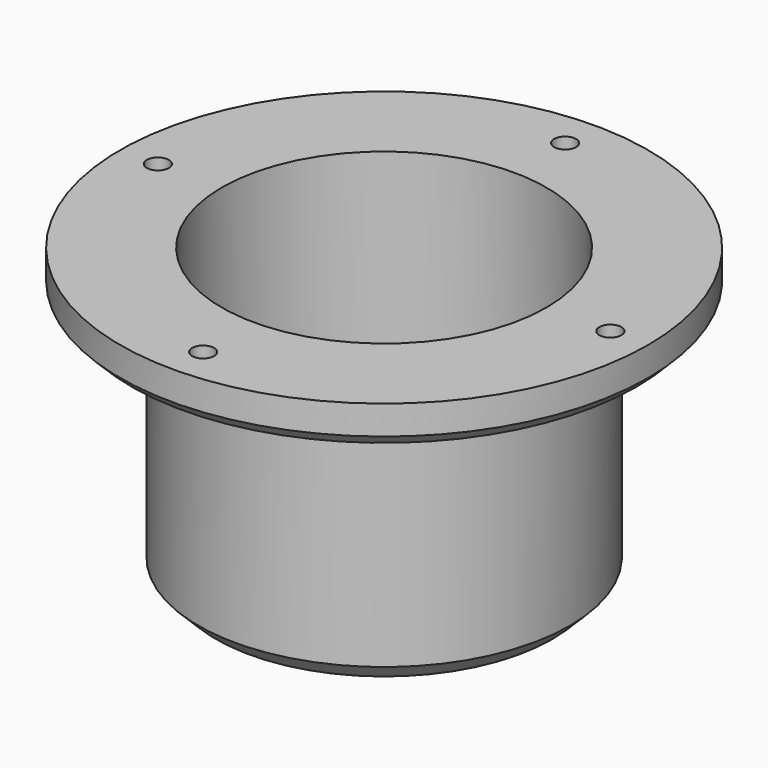
from build123d import *

# Parameters (mm, degrees)
SKETCH029_R     = 22.75
SKETCH029_R_2   = 14
PAD009_DEPTH    = 3.5
CHAMFER007_SIZE = 1
SKETCH026_R     = 16
SKETCH026_R_2   = 14
PAD010_DEPTH    = 25
SKETCH030_R     = 0.95
POCKET012_DEPTH = 3
SKETCH032_R     = 1.65
POCKET014_DEPTH = 1.5
CHAMFER011_SIZE = 1.5


with BuildPart() as part:
    # Sketch029 → Pad009 (new body)
    with BuildSketch(Plane.XY):
        Circle(SKETCH029_R)
        Circle(SKETCH029_R_2, mode=Mode.SUBTRACT)
    extrude(amount=-PAD009_DEPTH)

    # Chamfer007
    chamfer007_edges = [part.edges().sort_by_distance(p)[0] for p in [
        (-22.75, 0, -3.5),
    ]]
    chamfer(chamfer007_edges, length=CHAMFER007_SIZE)

    # Sketch026 → Pad010 (join)
    with BuildSketch(Plane.XY):
        Circle(SKETCH026_R)
        Circle(SKETCH026_R_2, mode=Mode.SUBTRACT)
    extrude(amount=-PAD010_DEPTH)

    # Sketch030 → Pocket012 (cut)
    with BuildSketch(Plane.XY):
        with Locations((-19.5, 0)):
            Circle(SKETCH030_R)
        with Locations((0, -19.5)):
            Circle(SKETCH030_R)
        with Locations((19.5, 0)):
            Circle(SKETCH030_R)
        with Locations((0, 19.5)):
            Circle(SKETCH030_R)
    extrude(amount=-POCKET012_DEPTH, mode=Mode.SUBTRACT)

    # Sketch032 → Pocket014 (cut)
    with BuildSketch(Plane.XY.offset(-3.5)):
        with Locations((-19.5, 0)):
            Circle(SKETCH032_R)
        with Locations((0, -19.5)):
            Circle(SKETCH032_R)
        with Locations((19.5, 0)):
            Circle(SKETCH032_R)
        with Locations((0, 19.5)):
            Circle(SKETCH032_R)
    extrude(amount=POCKET014_DEPTH, mode=Mode.SUBTRACT)

    # Chamfer011
    chamfer011_edges = [part.edges().sort_by_distance(p)[0] for p in [
        (-16, 0, -25),
    ]]
    chamfer(chamfer011_edges, length=CHAMFER011_SIZE)


with BuildPart() as part_1:
    # Body006 placement: moved
    add(part.part.moved(Location((0, 0, -1))))


solid = part_1.part
